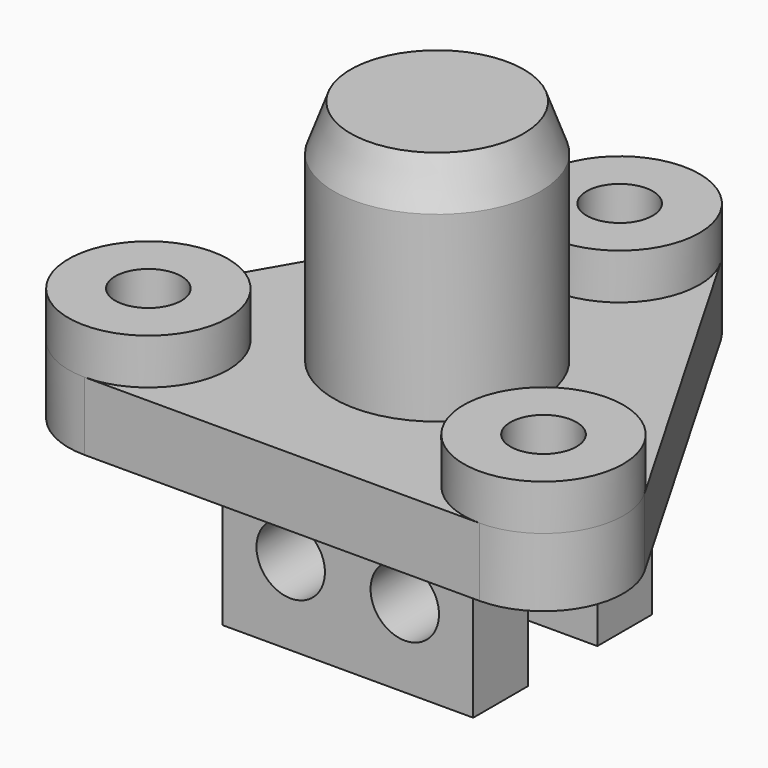
from build123d import *

# Parameters (mm, degrees)
SKETCH_R      = 1.45
PAD_DEPTH     = 3
SKETCH001_W   = 11
SKETCH001_H   = 3
PAD001_DEPTH  = 7
SKETCH002_R   = 1.5
POCKET_DEPTH  = 9.8
SKETCH003_R   = 3.5
SKETCH003_R_2 = 1.45
PAD002_DEPTH  = 2
SKETCH004_R   = 4.525
PAD003_DEPTH  = 10
CHAMFER_ANGLE = 20
CHAMFER_SIZE  = 2


with BuildPart() as part:
    # Sketch → Pad (new body)
    with BuildSketch(Plane.XY):
        with BuildLine():
            ThreePointArc((3.031089, 11.75), (0, 13.5), (-3.031089, 11.75))
            Line((-11.691343, -3.25), (-3.031089, 11.75))
            ThreePointArc((-11.691343, -3.25), (-11.691343, -6.75), (-8.660254, -8.5))
            Line((8.660254, -8.5), (-8.660254, -8.5))
            ThreePointArc((8.660254, -8.5), (11.691343, -6.75), (11.691343, -3.25))
            Line((3.031089, 11.75), (11.691343, -3.25))
        make_face()
        with Locations((0, 10)):
            Circle(SKETCH_R, mode=Mode.SUBTRACT)
        with Locations((8.660254, -5)):
            Circle(SKETCH_R, mode=Mode.SUBTRACT)
        with Locations((-8.660254, -5)):
            Circle(SKETCH_R, mode=Mode.SUBTRACT)
    extrude(amount=PAD_DEPTH)

    # Sketch001 (on Face10 of Pad) → Pad001 (join)
    with BuildSketch(Plane(origin=(0, 0, 0), x_dir=(1, 0, 0), z_dir=(0, 0, -1))):
        with Locations((0, 3.4)):
            Rectangle(SKETCH001_W, SKETCH001_H)
        with Locations((0, -3.4)):
            Rectangle(SKETCH001_W, SKETCH001_H)
    extrude(amount=PAD001_DEPTH)

    # Sketch002 (on Face18 of Pad001) → Pocket (cut)
    with BuildSketch(Plane(origin=(0, 4.9, 0), x_dir=(-1, 0, 0), z_dir=(0, 1, 0))):
        with Locations((-2.5, -3.5)):
            Circle(SKETCH002_R)
        with Locations((2.5, -3.5)):
            Circle(SKETCH002_R)
    extrude(amount=-POCKET_DEPTH, mode=Mode.SUBTRACT)

    # Sketch003 (on Face5 of Pocket) → Pad002 (join)
    with BuildSketch(Plane.XY.offset(3)):
        with Locations((0, 10)):
            Circle(SKETCH003_R)
        with Locations((0, 10)):
            Circle(SKETCH003_R_2, mode=Mode.SUBTRACT)
        with Locations((8.660254, -5)):
            Circle(SKETCH003_R)
        with Locations((8.660254, -5)):
            Circle(SKETCH003_R_2, mode=Mode.SUBTRACT)
        with Locations((-8.660254, -5)):
            Circle(SKETCH003_R)
        with Locations((-8.660254, -5)):
            Circle(SKETCH003_R_2, mode=Mode.SUBTRACT)
    extrude(amount=PAD002_DEPTH)

    # Sketch004 (on Face4 of Pad002) → Pad003 (join)
    with BuildSketch(Plane.XY.offset(3)):
        Circle(SKETCH004_R)
    extrude(amount=PAD003_DEPTH)

    # Chamfer
    chamfer_edges = [part.edges().sort_by_distance(p)[0] for p in [
        (-4.525, 0, 13),
    ]]
    chamfer_side = part.faces().sort_by_distance((-4.525, 0, 8))[0]
    chamfer(chamfer_edges, length=CHAMFER_SIZE, angle=CHAMFER_ANGLE, reference=chamfer_side)


solid = part.part
